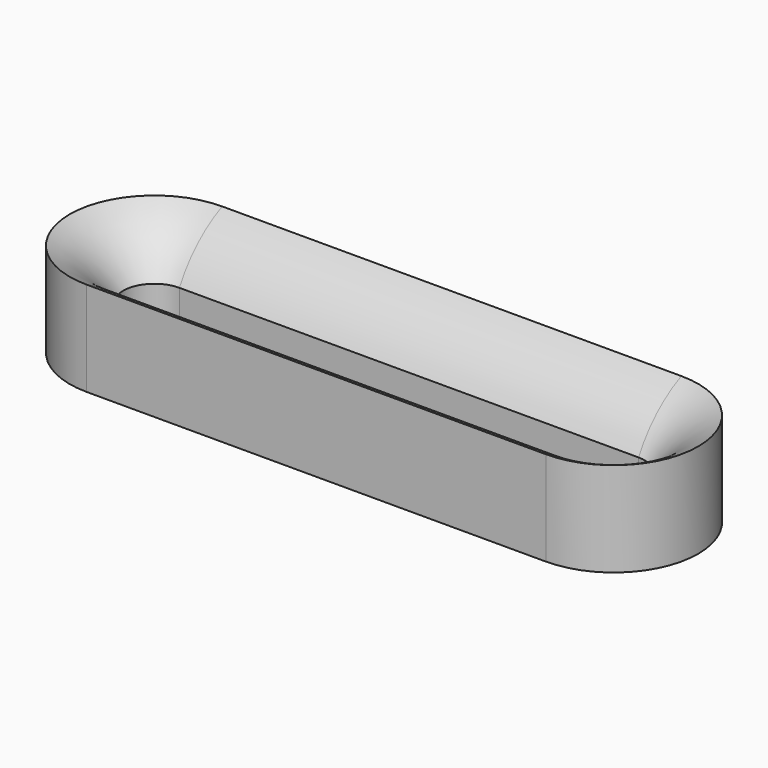
from build123d import *


with BuildPart() as f2:
    # F2: sweep along a path in F0
    with BuildLine(Plane.XY) as f2_path:
        Line((-51.5, -19), (51.5, -19))
        ThreePointArc((51.5, -19), (70.5, 0), (51.5, 19))
        Line((51.5, 19), (-51.5, 19))
        ThreePointArc((-51.5, 19), (-70.5, 0), (-51.5, -19))
    # F1 (on Right) → F2 (sweep)
    with BuildSketch(Plane.YZ):
        with BuildLine():
            Line((-7, -21.192692), (-7, -11.192692))
            ThreePointArc((-7, -11.192692), (-12.055502, -4.583723), (-19, 0))
            Line((-19, 0), (-19, -11.192692))
            Line((-19, -11.192692), (-19, -21.192692))
            Line((-19, -21.192692), (-7, -21.192692))
        make_face()
    sweep(path=f2_path.line)


solid = f2.part
